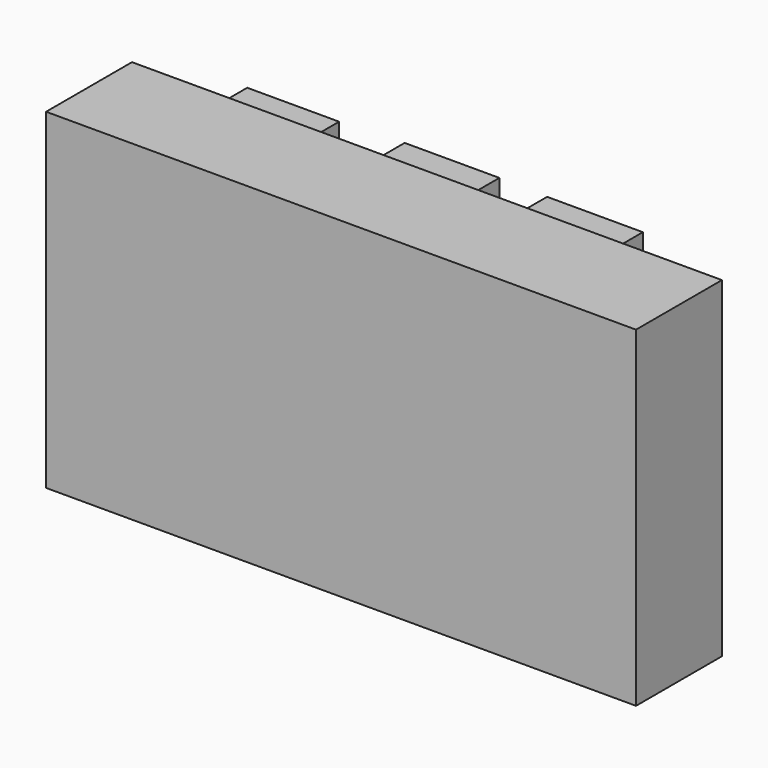
from build123d import *

# Parameters (mm, degrees)
F0_W     = 153.506532
F0_H     = 86.176313
F1_DEPTH = 27.94
F2_W     = 22.60308
F2_H     = 20.185884
F2_W_2   = 24.641886
F2_H_2   = 17.229498
F2_W_3   = 22.046797
F2_H_3   = 19.492792
F2_W_4   = 25.047584
F2_H_4   = 16.827098
F2_W_5   = 24.907281
F2_H_5   = 16.933799
F2_W_6   = 23.906477
F2_H_6   = 17.490819
F3_DEPTH = 11.938


with BuildPart() as f1:
    # F0 (on Front) → F1 (new body)
    with BuildSketch(Plane.XZ):
        with Locations((-76.753266, 43.088156)):
            Rectangle(F0_W, F0_H)
    extrude(amount=F1_DEPTH)

    # F2 (on Front) → F3 (join)
    with BuildSketch(Plane.XZ):
        with Locations((-121.217348, 39.68752)):
            Rectangle(F2_W, F2_H)
        with Locations((-79.783976, 74.179031)):
            Rectangle(F2_W_2, F2_H_2)
        with Locations((-78.486431, 39.374868)):
            Rectangle(F2_W_3, F2_H_3)
        with Locations((-43.212709, 38.042021)):
            Rectangle(F2_W_4, F2_H_4)
        with Locations((-42.580892, 74.031182)):
            Rectangle(F2_W_5, F2_H_5)
        with Locations((-121.11422, 73.362299)):
            Rectangle(F2_W_6, F2_H_6)
    extrude(amount=-F3_DEPTH)


solid = f1.part
